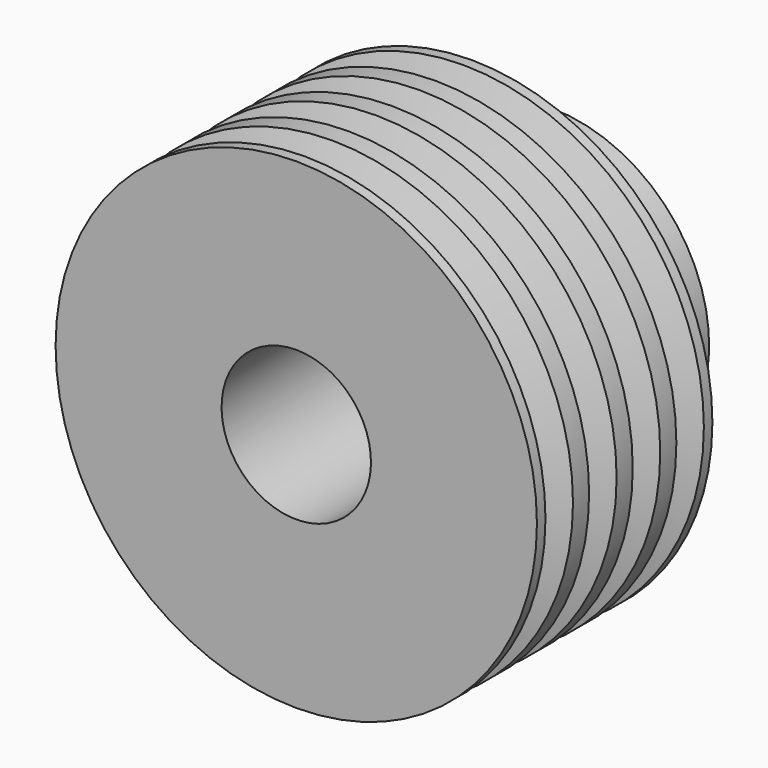
from build123d import *


with BuildPart() as f1:
    # F0 (on Right) → F1 (revolve)
    with BuildSketch(Plane.YZ):
        Polygon((0, 60.9), (0, 18.9), (59.7, 18.9), (59.7, 23.45), (80.6, 23.45), (80.6, 40), (55.5, 40), (55.5, 60.9), (52.8, 60.9), (49.45, 51.9), (47.45, 51.9), (44.1, 60.9), (39, 60.9), (35.65, 51.9), (33.65, 51.9), (30.3, 60.9), (25.2, 60.9), (21.85, 51.9), (19.85, 51.9), (16.5, 60.9), (11.4, 60.9), (8.05, 51.9), (6.05, 51.9), (2.7, 60.9), align=None)
    revolve(axis=Axis((0, 40.3, 0), (0, 1, 0)))


solid = f1.part
